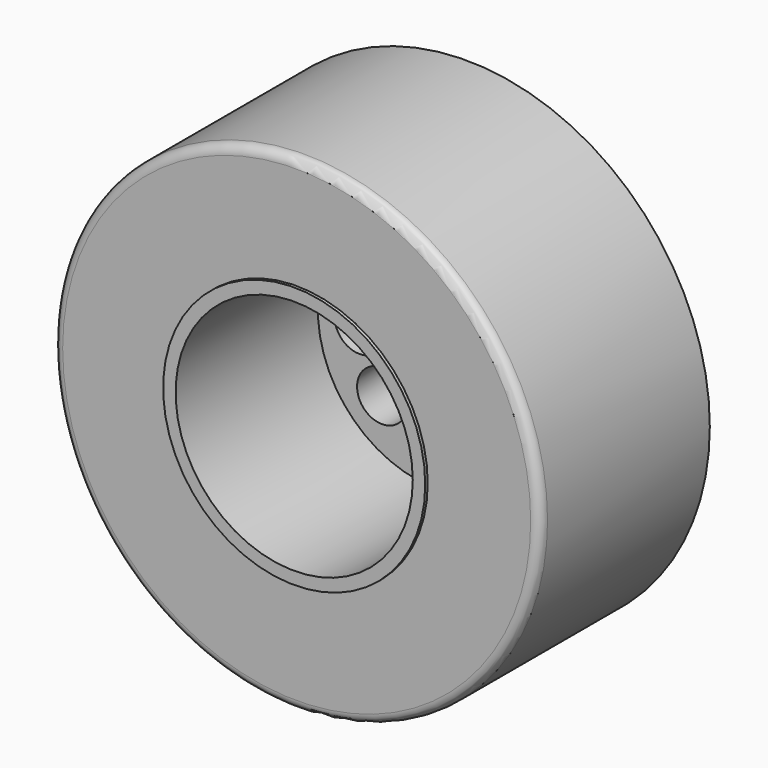
from build123d import *

# Parameters (mm, degrees)
F0_R      = 19.5
F1_DEPTH  = 17
F2_R      = 9.5
F3_DEPTH  = 14
F4_R      = 18.5
F4_R_2    = 10.5
F5_DEPTH  = 16
F6_R      = 2
F7_DEPTH  = 25
F8_R      = 3.5
F9_DEPTH  = 10
F10_R     = 2
F11_DEPTH = 10
F12_R     = 4
F13_DEPTH = 1
F14_R     = 2.5
F15_DEPTH = 0.75
F16_R     = 0.5
F17_DEPTH = 0.5
F19_R     = 0.75
F18_R     = 10.5
F18_R_2   = 9.5
F20_DEPTH = 0.25


with BuildPart() as f1:
    # F0 (on Front) → F1 (new body)
    with BuildSketch(Plane.XZ):
        Circle(F0_R)
    extrude(amount=F1_DEPTH)

    # F2 (on face) → F3 (cut)
    with BuildSketch(Plane.XZ.offset(17)):
        Circle(F2_R)
    extrude(amount=-F3_DEPTH, mode=Mode.SUBTRACT)

    # F4 (on face) → F5 (cut)
    with BuildSketch(Plane(origin=(0, 0, 0), x_dir=(-1, 0, 0), z_dir=(0, 1, 0))):
        Circle(F4_R)
        Circle(F4_R_2, mode=Mode.SUBTRACT)
    extrude(amount=-F5_DEPTH, mode=Mode.SUBTRACT)

    # F6 (on face) → F7 (cut)
    with BuildSketch(Plane.XZ.offset(3)):
        with Locations((0, 6.1688632704)):
            Circle(F6_R)
        with Locations((-4.3620450507, 4.3620450507)):
            Circle(F6_R)
        with Locations((-6.1688632704, 0)):
            Circle(F6_R)
        with Locations((-4.3620450507, -4.3620450507)):
            Circle(F6_R)
        with Locations((0, -6.1688632704)):
            Circle(F6_R)
        with Locations((4.3620450507, -4.3620450507)):
            Circle(F6_R)
        with Locations((6.1688632704, 0)):
            Circle(F6_R)
        with Locations((4.3620450507, 4.3620450507)):
            Circle(F6_R)
    extrude(amount=-F7_DEPTH, mode=Mode.SUBTRACT)

    # F8 (on face) → F9 (join)
    with BuildSketch(Plane(origin=(0, 0, 0), x_dir=(-1, 0, 0), z_dir=(0, 1, 0))):
        Circle(F8_R)
    extrude(amount=F9_DEPTH)

    # F10 (on face) → F11 (cut)
    with BuildSketch(Plane(origin=(0, 10, 0), x_dir=(-1, 0, 0), z_dir=(0, 1, 0))):
        Circle(F10_R)
    extrude(amount=-F11_DEPTH, mode=Mode.SUBTRACT)

    # F12 (on face) → F13 (join)
    with BuildSketch(Plane.XZ.offset(3)):
        with Locations((0.0866679911, 0.0506265242)):
            Circle(F12_R)
    extrude(amount=F13_DEPTH)

    # F14 (on face) → F15 (join)
    with BuildSketch(Plane.XZ.offset(4)):
        Circle(F14_R)
    extrude(amount=F15_DEPTH)

    # F16 (on face) → F17 (join)
    with BuildSketch(Plane.XZ.offset(4)):
        with Locations((0, 3.2079922967)):
            Circle(F16_R)
        with Locations((-1.8856105614, 2.5953202858)):
            Circle(F16_R)
        with Locations((-3.050981978, 0.9913241375)):
            Circle(F16_R)
        with Locations((-3.050981978, -0.9913241375)):
            Circle(F16_R)
        with Locations((-1.8856105614, -2.5953202858)):
            Circle(F16_R)
        with Locations((0, -3.2079922967)):
            Circle(F16_R)
        with Locations((1.8856105614, -2.5953202858)):
            Circle(F16_R)
        with Locations((3.050981978, -0.9913241375)):
            Circle(F16_R)
        with Locations((3.050981978, 0.9913241375)):
            Circle(F16_R)
        with Locations((1.8856105614, 2.5953202858)):
            Circle(F16_R)
    extrude(amount=F17_DEPTH)

    # F19
    f19_edges = [f1.edges().sort_by_distance(p)[0] for p in [
        (-19.5, -17, 0),
    ]]
    fillet(f19_edges, radius=F19_R)

    # F18 (on face) → F20 (join)
    with BuildSketch(Plane.XZ.offset(17)):
        Circle(F18_R)
        Circle(F18_R_2, mode=Mode.SUBTRACT)
    extrude(amount=F20_DEPTH)


solid = f1.part
